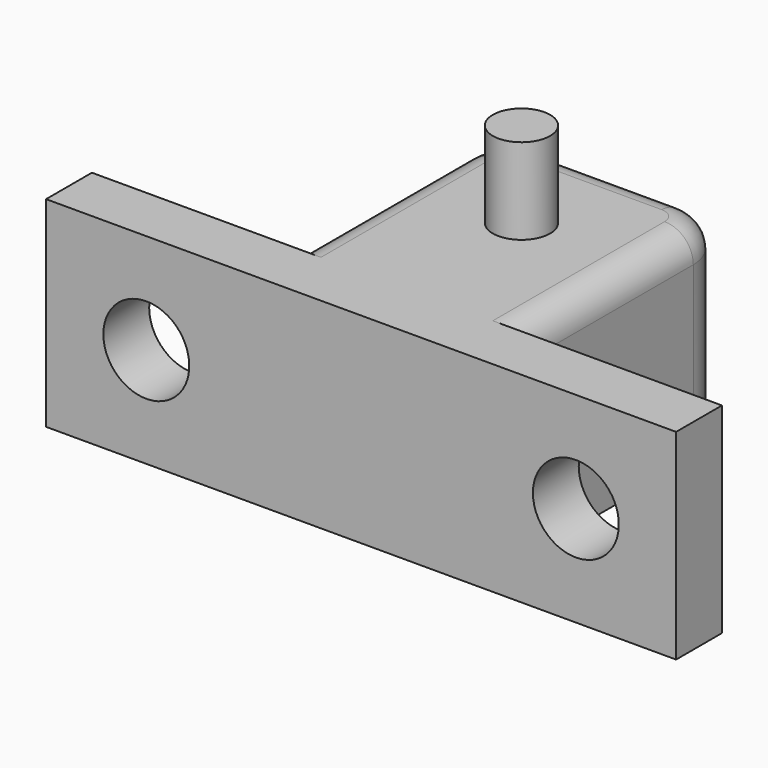
from build123d import *

# Parameters (mm, degrees)
F0_R     = 2
F1_DEPTH = 20
F2_DEPTH = 14
F3_R     = 3
F5_DEPTH = 4.001
F4_R     = 3
F6_DEPTH = 4.001
F7_R     = 3
F8_R     = 3
F9_R     = 2


with BuildPart() as f1:
    # F0 (on Top) → F1 (new body)
    with BuildSketch(Plane.XY):
        Circle(F0_R)
    extrude(amount=F1_DEPTH)


with BuildPart() as f2:
    # F0 (on Top) → F2 (new body)
    with BuildSketch(Plane.XY):
        Polygon((8, 8), (-8, 8), (-8, -10), (-22, -10), (-22, -14), (22, -14), (22, -10), (8, -10), align=None)
        Circle(F0_R, mode=Mode.SUBTRACT)
    extrude(amount=F2_DEPTH)

    # F3 (on face) → F5 (cut, through all)
    with BuildSketch(Plane(origin=(0, -10, 0), x_dir=(-1, 0, 0), z_dir=(0, 1, 0))):
        with Locations((15, 7)):
            Circle(F3_R)
    extrude(amount=-F5_DEPTH, mode=Mode.SUBTRACT)

    # F4 (on face) → F6 (cut, through all)
    with BuildSketch(Plane(origin=(0, -10, 0), x_dir=(-1, 0, 0), z_dir=(0, 1, 0))):
        with Locations((-15, 7)):
            Circle(F4_R)
    extrude(amount=-F6_DEPTH, mode=Mode.SUBTRACT)

    # F7
    f7_edges = [f2.edges().sort_by_distance(p)[0] for p in [
        (-8, 8, 7),
    ]]
    fillet(f7_edges, radius=F7_R)

    # F8
    f8_edges = [f2.edges().sort_by_distance(p)[0] for p in [
        (8, 8, 7),
    ]]
    fillet(f8_edges, radius=F8_R)

    # F9
    f9_edges = [f2.edges().sort_by_distance(p)[0] for p in [
        (-8, -2.5, 14),
    ]]
    fillet(f9_edges, radius=F9_R)


solid = Compound([f1.part, f2.part])
